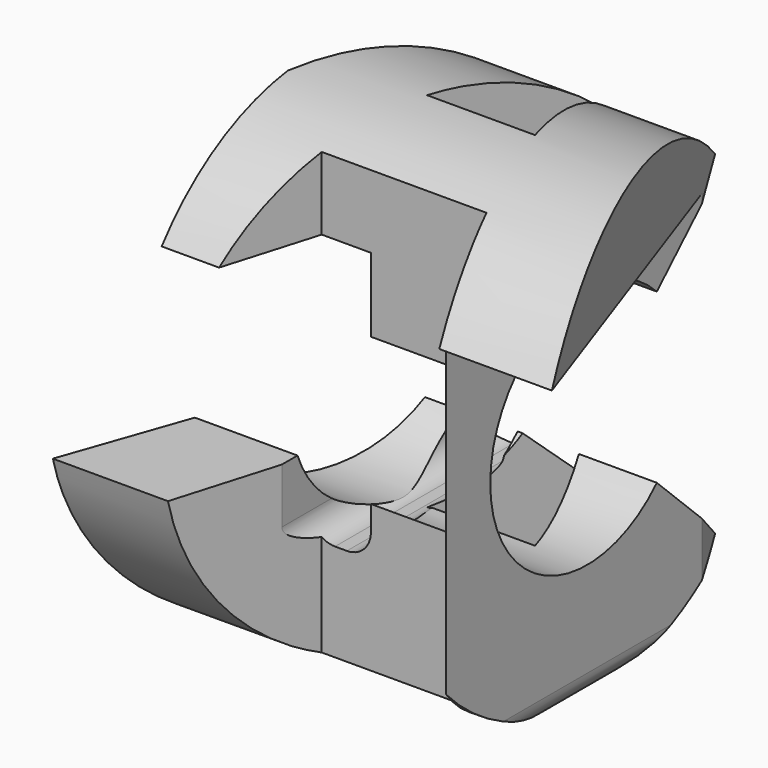
from build123d import *

# Parameters (mm, degrees)
F3_DEPTH = 50
F4_DEPTH = 50
F5_DEPTH = 50


with BuildPart() as f3:
    # F0 (on Top) → F3 (new body, symmetric)
    with BuildSketch(Plane.XY):
        Polygon((15, 50), (0, 50), (-15, 50), (-50, -50), (-26.013944, -50), (-17.136321, -20), (17.136321, -20), (26.013944, -50), (50, -50), align=None)
        Polygon((-11.217906, 0), (0, 37.90848), (11.217906, 0), align=None, mode=Mode.SUBTRACT)
    extrude(amount=F3_DEPTH, both=True)

    # F1 (on Front) → F4 (intersect, symmetric)
    with BuildSketch(Plane.XZ):
        with BuildLine():
            Line((50, 30.683344), (50, 50))
            Line((50, 50), (-34.83974, 50))
            Line((-34.83974, 50), (-34.83974, 30.683344))
            Line((-34.83974, 30.683344), (-6.906417, 30.683344))
            Line((-6.906417, 30.683344), (-6.906417, -20.520055))
            ThreePointArc((-6.906417, -20.520055), (-8.370883, -24.055589), (-11.906417, -25.520055))
            Line((-11.906417, -25.520055), (-14.371657, -25.520055))
            ThreePointArc((-14.371657, -25.520055), (-17.907191, -24.055589), (-19.371657, -20.520055))
            Line((-19.371657, -20.520055), (-19.371657, -9.06684))
            Line((-19.371657, -9.06684), (-50, -9.06684))
            Line((-50, -9.06684), (-50, -45))
            ThreePointArc((-50, -45), (-48.535534, -48.535534), (-45, -50))
            Line((-45, -50), (17.066677, -50))
            ThreePointArc((17.066677, -50), (20.602211, -48.535534), (22.066677, -45))
            Line((22.066677, -45), (22.066677, 30.683344))
            Line((22.066677, 30.683344), (50, 30.683344))
        make_face()
    extrude(amount=F4_DEPTH, both=True, mode=Mode.INTERSECT)

    # F2 (on Right) → F5 (intersect, symmetric)
    with BuildSketch(Plane.YZ):
        with BuildLine():
            Line((18.11799, 17.495545), (35.967778, 34.732102))
            ThreePointArc((35.967778, 34.732102), (-50, 0), (35.967778, -34.732102))
            Line((35.967778, -34.732102), (18.11799, -17.495545))
            ThreePointArc((18.11799, -17.495545), (-25.186418, 0), (18.11799, 17.495545))
        make_face()
    extrude(amount=F5_DEPTH, both=True, mode=Mode.INTERSECT)


solid = f3.part
